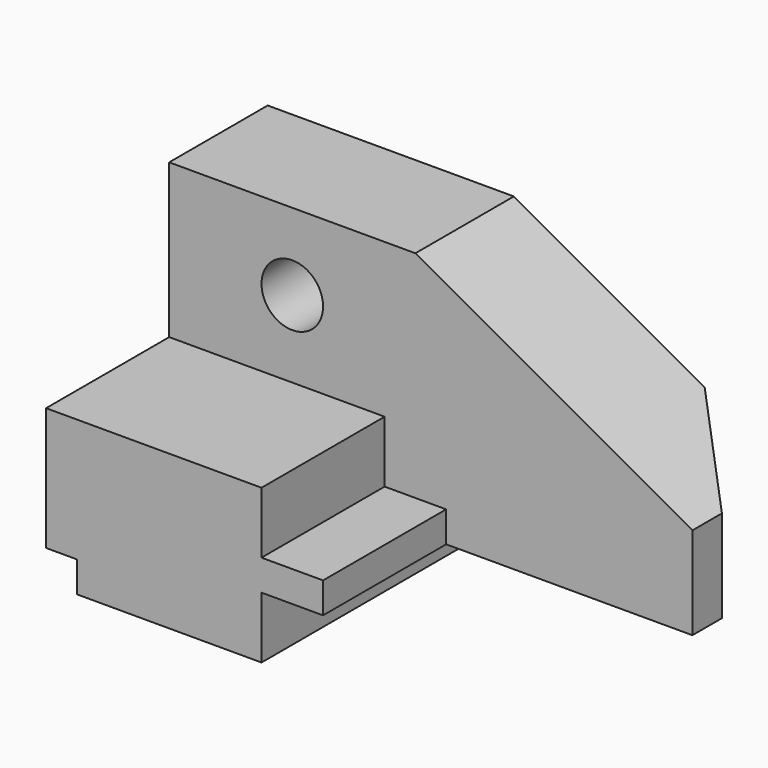
from build123d import *

# Parameters (mm, degrees)
F0_R     = 6.35
F1_DEPTH = 25.4
F2_DEPTH = 57.15
F4_DEPTH = 50.801


with BuildPart() as f1:
    # F0 (on Front) → F1 (new body)
    with BuildSketch(Plane.XZ):
        Polygon((-6.35, 63.5), (-6.35, 31.75), (38.1, 31.75), (38.1, 19.05), (50.8, 19.05), (50.8, 12.7), (101.6, 12.7), (101.6, 31.75), (44.45, 63.5), align=None)
        with Locations((19.05, 47.625)):
            Circle(F0_R, mode=Mode.SUBTRACT)
    extrude(amount=F1_DEPTH)

    # F0 (on Front) → F2 (join)
    with BuildSketch(Plane.XZ):
        Polygon((0, 6.35), (0, 0), (38.1, 0), (38.1, 12.7), (50.8, 12.7), (50.8, 19.05), (38.1, 19.05), (38.1, 31.75), (-6.35, 31.75), (-6.35, 6.35), align=None)
    extrude(amount=F2_DEPTH)

    # F3 (on face) → F4 (cut, through all)
    with BuildSketch(Plane(origin=(0, 0, 12.7), x_dir=(1, 0, 0), z_dir=(0, 0, -1))):
        Polygon((101.6, 0), (101.6, 17.78), (83.82, 0), align=None)
    extrude(amount=-F4_DEPTH, mode=Mode.SUBTRACT)


solid = f1.part
